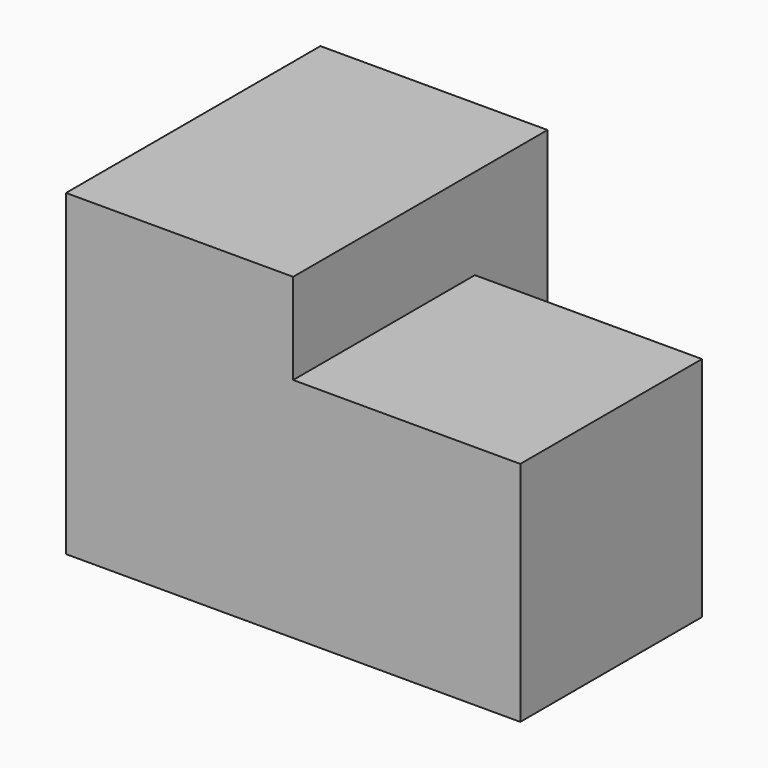
from build123d import *

# Parameters (mm, degrees)
BOX001_W     = 10
BOX001_H     = 10
BOX001_DEPTH = 10
BOX_W        = 10
BOX_H        = 14
BOX_DEPTH    = 14


with BuildPart() as box001:
    # Box001 → Box001 (new body)
    with BuildSketch(Plane(origin=(10, 0, 0), x_dir=(1, 0, 0), z_dir=(0, 0, 1))):
        with Locations((5, 5)):
            Rectangle(BOX001_W, BOX001_H)
    extrude(amount=BOX001_DEPTH)


with BuildPart() as obj1:
    # Box → Box (new body)
    with BuildSketch(Plane.XY):
        with Locations((5, 7)):
            Rectangle(BOX_W, BOX_H)
    extrude(amount=BOX_DEPTH)

    # Fusion: union Box001
    add(box001.part)


solid = obj1.part
